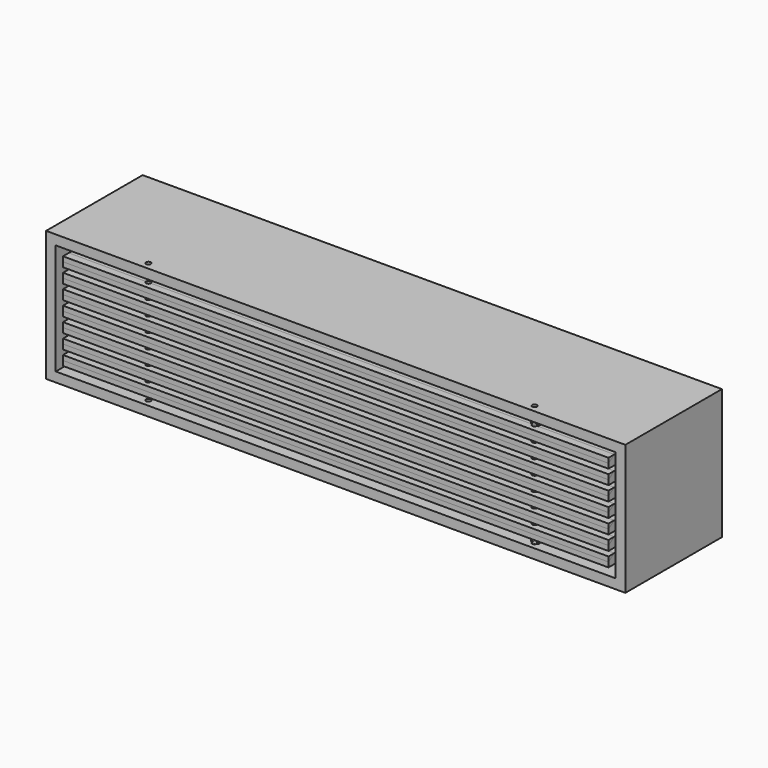
from build123d import *

# Parameters (mm, degrees)
SKETCH_W               = 1200
SKETCH_H               = 250
PAD_DEPTH              = 270
THICKNESS_T            = -20
SKETCH002_R            = 5
POCKET_DEPTH           = 255
SKETCH001_W            = 1130
SKETCH001_H            = 20
PAD001_DEPTH           = 30
LINEARPATTERN_COUNT    = 7
LINEARPATTERN_PITCH    = 30
BINDER_R               = 5
POCKET001_DEPTH        = 2530.910406
PAD002_DEPTH           = 565
LINEARPATTERN001_COUNT = 7
LINEARPATTERN001_PITCH = 30
BINDER001_R            = 5
POCKET002_DEPTH        = 2530.910406
SKETCH005_W            = 25
SKETCH005_H            = 229.8
PAD003_DEPTH           = 7.5
BINDER003_R            = 5.1
POCKET003_DEPTH        = 249.901
SKETCH006_W            = 30
SKETCH006_H            = 20.2
POCKET004_DEPTH        = 0.001
POCKET004_DEPTH_BACK   = 407.501
LINEARPATTERN002_COUNT = 7
LINEARPATTERN002_PITCH = 30
THICKNESS001_T         = -3
PAD004_DEPTH           = 5
SKETCH008_W            = 10
SKETCH008_H            = 7.999286
PAD005_DEPTH           = 5
PAD006_DEPTH           = 10
SKETCH010_W            = 15
SKETCH010_H            = 230
PAD007_DEPTH           = 10
SKETCH011_W            = 30
SKETCH011_H            = 20.4
POCKET005_DEPTH        = 10.001
POCKET005_DEPTH_BACK   = 10.001
LINEARPATTERN003_COUNT = 7
LINEARPATTERN003_PITCH = 30
BINDER005_W            = 16
BINDER005_H            = 226
POCKET006_DEPTH        = 10


with BuildPart() as body:
    # Sketch → Pad (new body)
    with BuildSketch(Plane.XY):
        with Locations((0, 125)):
            Rectangle(SKETCH_W, SKETCH_H)
    extrude(amount=PAD_DEPTH)

    # Thickness
    thickness_openings = [body.faces().sort_by_distance(p)[0] for p in [
        (0, 0, 135),
        (0, 250, 135),
    ]]
    offset(amount=THICKNESS_T, openings=thickness_openings)

    # Sketch002 (on Face4 of Thickness) → Pocket (cut)
    with BuildSketch(Plane.XY.offset(270)):
        with Locations((400, 15)):
            Circle(SKETCH002_R)
    pocket = extrude(amount=-POCKET_DEPTH, mode=Mode.SUBTRACT)

    # Mirrored: Pocket across Sketch002 V_Axis
    add(pocket.mirror(Plane(origin=(0, 0, 270), x_dir=(0, 0, 1), z_dir=(1, 0, 0))), mode=Mode.SUBTRACT)


with BuildPart() as body001:
    # Sketch001 → Pad001 (new body)
    with BuildSketch(Plane.XZ):
        with Locations((0, 45)):
            Rectangle(SKETCH001_W, SKETCH001_H)
    extrude(amount=-PAD001_DEPTH)

    # LinearPattern: Body001 ×7


with BuildPart() as body001_1:
    add(body001.part)
    with Locations(*[(0, 0, i * LINEARPATTERN_PITCH) for i in range(1, LINEARPATTERN_COUNT)]):
        add(body001.part)

    # Binder → Pocket001 (cut, through all)
    with BuildSketch(Plane(origin=(400, 15, 270), x_dir=(0, 1, 0), z_dir=(0, 0, 1))):
        Circle(BINDER_R)
    pocket001 = extrude(amount=-POCKET001_DEPTH, mode=Mode.SUBTRACT)

    # Mirrored001: Pocket001 across YZ
    add(pocket001.mirror(Plane.YZ), mode=Mode.SUBTRACT)


with BuildPart() as body002:
    # Sketch004 → Pad002 (new body, symmetric)
    with BuildSketch(Plane.YZ):
        Polygon((0, 35), (30, 35), (30, 55), (15, 55), (0, 45), align=None)
    extrude(amount=PAD002_DEPTH, both=True)

    # LinearPattern001: Body002 ×7


with BuildPart() as body002_1:
    add(body002.part)
    with Locations(*[(0, 0, i * LINEARPATTERN001_PITCH) for i in range(1, LINEARPATTERN001_COUNT)]):
        add(body002.part)

    # Binder001 → Pocket002 (cut, through all)
    with BuildSketch(Plane(origin=(400, 15, 270), x_dir=(0, 1, 0), z_dir=(0, 0, 1))):
        Circle(BINDER001_R)
    pocket002 = extrude(amount=-POCKET002_DEPTH, mode=Mode.SUBTRACT)

    # Mirrored002: Pocket002 across YZ
    add(pocket002.mirror(Plane.YZ), mode=Mode.SUBTRACT)


with BuildPart() as body003:
    # Sketch005 → Pad003 (new body, symmetric)
    with BuildSketch(Plane.YZ.offset(400)):
        with Locations((27.5, 135)):
            Rectangle(SKETCH005_W, SKETCH005_H)
    extrude(amount=PAD003_DEPTH, both=True)

    # Binder003 → Pocket003 (cut, through all)
    with BuildSketch(Plane(origin=(400, 15, 270), x_dir=(0, 1, 0), z_dir=(0, 0, 1))):
        Circle(BINDER003_R)
    extrude(amount=-POCKET003_DEPTH, mode=Mode.SUBTRACT)

    # Sketch006 → Pocket004 (cut, two sides)
    with BuildSketch(Plane.YZ) as pocket004_sk:
        with Locations((15, 45)):
            Rectangle(SKETCH006_W, SKETCH006_H)
    pocket004 = extrude(amount=-POCKET004_DEPTH, mode=Mode.SUBTRACT) + extrude(pocket004_sk.sketch, amount=POCKET004_DEPTH_BACK, mode=Mode.SUBTRACT)

    # LinearPattern002: Pocket004 ×7
    with Locations(*[(0, 0, i * LINEARPATTERN002_PITCH) for i in range(1, LINEARPATTERN002_COUNT)]):
        add(pocket004, mode=Mode.SUBTRACT)

    # Thickness001
    thickness001_openings = [body003.faces().sort_by_distance(p)[0] for p in [
        (400, 40, 135),
    ]]
    offset(amount=THICKNESS001_T, openings=thickness001_openings)


with BuildPart() as body004:
    # Sketch007 → Pad004 (new body)
    with BuildSketch(Plane.XY.offset(35)):
        with BuildLine():
            ThreePointArc((404.473254, 13), (400, 19.9), (395.526746, 13))
            ThreePointArc((392.788019, 11.77551), (394.769628, 11.018392), (395.526746, 13))
            ThreePointArc((394.414141, 20.586429), (392.231201, 16.433791), (392.788019, 11.77551))
            ThreePointArc((394.414141, 20.586429), (394.84774, 21.2353), (395, 22.000714))
            Line((395, 22.000714), (395, 30))
            Line((395, 30), (405, 30))
            Line((405, 22.000714), (405, 30))
            ThreePointArc((405, 22.000714), (405.15226, 21.2353), (405.585859, 20.586429))
            ThreePointArc((407.211981, 11.77551), (407.768799, 16.433791), (405.585859, 20.586429))
            ThreePointArc((404.473254, 13), (405.230372, 11.018392), (407.211981, 11.77551))
        make_face()
    extrude(amount=-PAD004_DEPTH)

    # Sketch008 (on Face12 of Pad004) → Pad005 (join)
    with BuildSketch(Plane(origin=(0, 0, 30), x_dir=(1, 0, 0), z_dir=(0, 0, -1))):
        with Locations((400, -26.000357)):
            Rectangle(SKETCH008_W, SKETCH008_H)
    extrude(amount=PAD005_DEPTH)

    # Sketch009 (on Face11 of Pad005) → Pad006 (join)
    with BuildSketch(Plane.YZ.offset(405)):
        with BuildLine():
            ThreePointArc((30, 35), (33.75, 38.75), (30, 42.5))
            ThreePointArc((30, 44.5), (29, 43.5), (30, 42.5))
            ThreePointArc((31.483871, 33.194766), (35.701101, 39.498299), (30, 44.5))
            ThreePointArc((31.483871, 33.194766), (30.413769, 32.480653), (30, 31.26251))
            Line((30, 35), (30, 31.26251))
        make_face()
    extrude(amount=-PAD006_DEPTH)


with BuildPart() as body005:
    # Sketch010 → Pad007 (new body, symmetric)
    with BuildSketch(Plane.YZ):
        with Locations((32.5, 135)):
            Rectangle(SKETCH010_W, SKETCH010_H)
    extrude(amount=PAD007_DEPTH, both=True)

    # Sketch011 → Pocket005 (cut, two sides)
    with BuildSketch(Plane.YZ) as pocket005_sk:
        with Locations((15, 45)):
            Rectangle(SKETCH011_W, SKETCH011_H)
    pocket005 = extrude(amount=-POCKET005_DEPTH, mode=Mode.SUBTRACT) + extrude(pocket005_sk.sketch, amount=POCKET005_DEPTH_BACK, mode=Mode.SUBTRACT)

    # LinearPattern003: Pocket005 ×7
    with Locations(*[(0, 0, i * LINEARPATTERN003_PITCH) for i in range(1, LINEARPATTERN003_COUNT)]):
        add(pocket005, mode=Mode.SUBTRACT)

    # Binder005 → Pocket006 (cut)
    with BuildSketch(Plane(origin=(0, 40, 135), x_dir=(-1, 0, 0), z_dir=(0, -1, 0))):
        Rectangle(BINDER005_W, BINDER005_H)
    extrude(amount=POCKET006_DEPTH, mode=Mode.SUBTRACT)


solid = Compound([body.part, body001_1.part, body002_1.part, body003.part, body004.part, body005.part])
